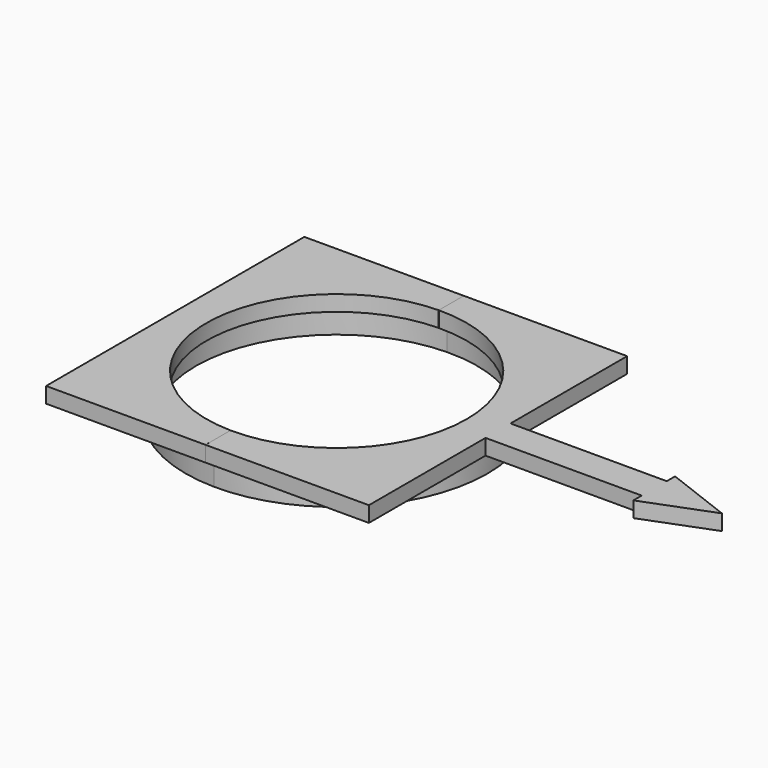
from build123d import *

# Parameters (mm, degrees)
F0_W     = 30
F0_H     = 3
F1_DEPTH = 3
F2_R     = 29
F2_R_2   = 27
F3_DEPTH = 4.9
F4_W     = 0.001
F4_H     = 500
F5_DEPTH = 25
F6_DEPTH = 25


with BuildPart() as f1:
    # F0 (on Top) → F1 (new body)
    with BuildSketch(Plane.XY):
        with BuildLine():
            ThreePointArc((-25, 0), (0, 25), (25, 0))
            Line((25, 0), (31, 0))
            Line((31, 0), (31, 3))
            Line((31, 3), (31, 31))
            Line((31, 31), (-31, 31))
            Line((-31, 31), (-31, 0))
            Line((-31, 0), (-25, 0))
        make_face()
        with BuildLine():
            Line((31, 0), (25, 0))
            ThreePointArc((25, 0), (0, -25), (-25, 0))
            Line((-25, 0), (-31, 0))
            Line((-31, 0), (-31, -31))
            Line((-31, -31), (31, -31))
            Line((31, -31), (31, -3))
            Line((31, -3), (31, 0))
        make_face()
        with Locations((46, -1.5)):
            Rectangle(F0_W, F0_H)
        with Locations((46, 1.5)):
            Rectangle(F0_W, F0_H)
        Polygon((61, 3), (61, 0), (61, -3), (61, -5), (74, 0), (61, 5), align=None)
    extrude(amount=F1_DEPTH)

    # F2 (on Top) → F3 (join)
    with BuildSketch(Plane.XY):
        Circle(F2_R)
        Circle(F2_R_2, mode=Mode.SUBTRACT)
    extrude(amount=-F3_DEPTH)

    # F4 (on Top) → F5 (cut)
    with BuildSketch(Plane.XY):
        with Locations((-0.382437, 218.174618)):
            Rectangle(F4_W, F4_H)
    extrude(amount=-F5_DEPTH, mode=Mode.SUBTRACT)

    # F4 (on Top) → F6 (cut)
    with BuildSketch(Plane.XY):
        with Locations((-0.382437, 218.174618)):
            Rectangle(F4_W, F4_H)
    extrude(amount=F6_DEPTH, mode=Mode.SUBTRACT)


solid = f1.part
